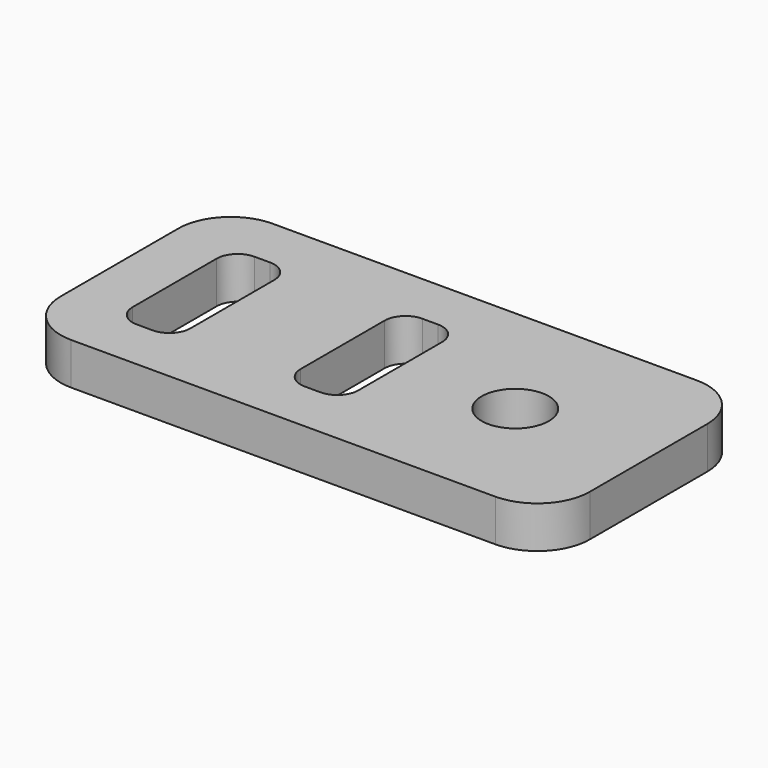
from build123d import *

# Parameters (mm, degrees)
F0_R     = 1.6
F1_DEPTH = 2


with BuildPart() as f1:
    # F0 (on Top) → F1 (new body)
    with BuildSketch(Plane.XY):
        with BuildLine():
            Line((3.85, 6), (-16.36, 6))
            ThreePointArc((-16.36, 6), (-18.127767, 5.267767), (-18.86, 3.5))
            Line((-18.86, 3.5), (-18.86, -3.5))
            ThreePointArc((-18.86, -3.5), (-18.127767, -5.267767), (-16.36, -6))
            Line((-16.36, -6), (3.85, -6))
            ThreePointArc((3.85, -6), (5.617767, -5.267767), (6.35, -3.5))
            Line((6.35, -3.5), (6.35, 3.5))
            ThreePointArc((6.35, 3.5), (5.617767, 5.267767), (3.85, 6))
        make_face()
        with BuildLine():
            ThreePointArc((-16.23, 2.5), (-15.937107, 3.207107), (-15.23, 3.5))
            Line((-15.23, 3.5), (-14.48, 3.5))
            ThreePointArc((-14.48, 3.5), (-13.772893, 3.207107), (-13.48, 2.5))
            Line((-13.48, 2.5), (-13.48, -2.5))
            ThreePointArc((-13.48, -2.5), (-13.772893, -3.207107), (-14.48, -3.5))
            Line((-14.48, -3.5), (-15.23, -3.5))
            ThreePointArc((-15.23, -3.5), (-15.937107, -3.207107), (-16.23, -2.5))
            Line((-16.23, -2.5), (-16.23, 2.5))
        make_face(mode=Mode.SUBTRACT)
        with BuildLine():
            ThreePointArc((-8.23, 2.5), (-7.937107, 3.207107), (-7.23, 3.5))
            Line((-7.23, 3.5), (-6.48, 3.5))
            ThreePointArc((-6.48, 3.5), (-5.772893, 3.207107), (-5.48, 2.5))
            Line((-5.48, 2.5), (-5.48, -2.5))
            ThreePointArc((-5.48, -2.5), (-5.772893, -3.207107), (-6.48, -3.5))
            Line((-6.48, -3.5), (-7.23, -3.5))
            ThreePointArc((-7.23, -3.5), (-7.937107, -3.207107), (-8.23, -2.5))
            Line((-8.23, -2.5), (-8.23, 2.5))
        make_face(mode=Mode.SUBTRACT)
        Circle(F0_R, mode=Mode.SUBTRACT)
    extrude(amount=F1_DEPTH)


solid = f1.part
